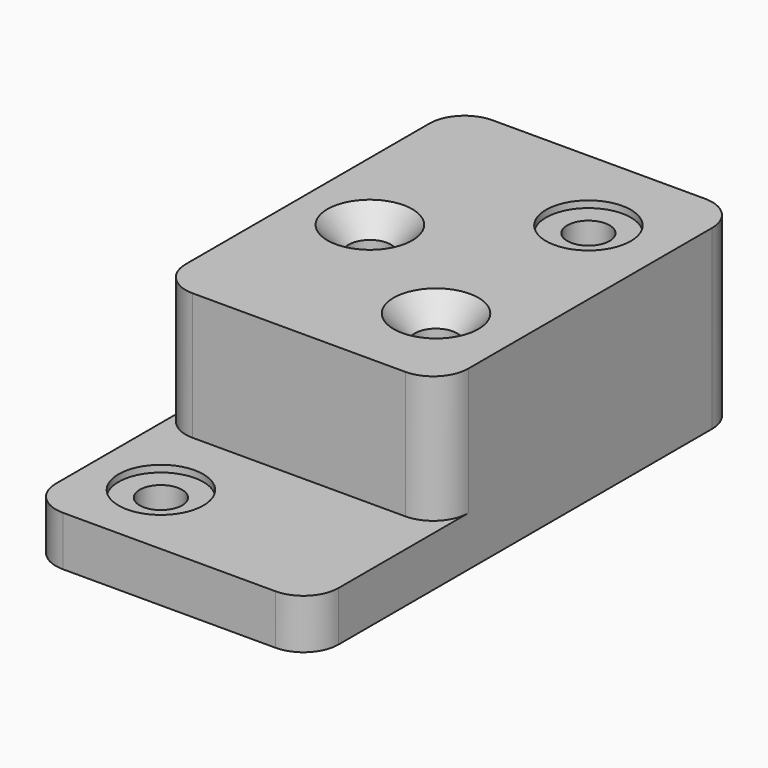
from build123d import *

# Parameters (mm, degrees)
F0_W                 = 127
F0_H                 = 168.402
F1_DEPTH             = 79.502
F0_H_2               = 72.898
F2_DEPTH             = 22.352
F4_D                 = 19.05
F4_CSINK_D           = 38.1
F4_CSINK_ANGLE       = 82
F6_D                 = 19.05
F6_CBORE_D           = 38.1
F6_CBORE_DEPTH       = 3.048
F6_ON_F5_D           = 19.05
F6_ON_F5_CBORE_D     = 38.1
F6_ON_F5_CBORE_DEPTH = 3.048
F7_R                 = 15.748


with BuildPart() as f1:
    # F0 (on Top) → F1 (new body)
    with BuildSketch(Plane.XY):
        with Locations((0, 36.449)):
            Rectangle(F0_W, F0_H)
    extrude(amount=F1_DEPTH)

    # F0 (on Top) → F2 (join)
    with BuildSketch(Plane.XY):
        with Locations((0, -84.201)):
            Rectangle(F0_W, F0_H_2)
    extrude(amount=F2_DEPTH)

    # F4 (through all)
    with Locations(Plane.XY.offset(79.502)):
        with Locations((-31.75, 31.75), (28.448, -6.35)):
            CounterSinkHole(F4_D / 2, F4_CSINK_D / 2, counter_sink_angle=F4_CSINK_ANGLE)

    # F6 (through all)
    with Locations(Plane.XY.offset(79.502)):
        with Locations((28.448, 79.248)):
            CounterBoreHole(F6_D / 2, F6_CBORE_D / 2, F6_CBORE_DEPTH)

    # F6 on F5 (through all)
    with Locations(Plane.XY.offset(22.352)):
        with Locations((-31.75, -85.598)):
            CounterBoreHole(F6_ON_F5_D / 2, F6_ON_F5_CBORE_D / 2, F6_ON_F5_CBORE_DEPTH)

    # F7
    f7_edges = [f1.edges().sort_by_distance(p)[0] for p in [
        (-63.5, -47.752, 50.927),
        (63.5, -47.752, 50.927),
        (63.5, -120.65, 11.176),
        (-63.5, -120.65, 11.176),
        (-63.5, 120.65, 39.751),
        (63.5, 120.65, 39.751),
    ]]
    fillet(f7_edges, radius=F7_R)


solid = f1.part
